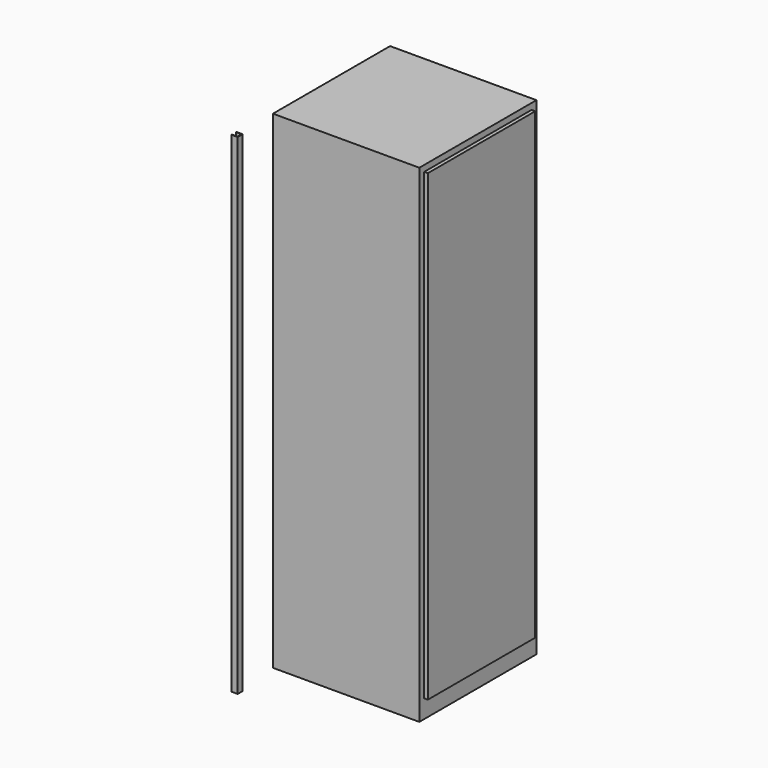
from build123d import *

# Parameters (mm, degrees)
F0_W     = 600
F0_H     = 2000
F1_DEPTH = 600
F2_W     = 550
F2_H     = 1900
F3_DEPTH = 15
F4_W     = 25
F4_H     = 2010
F5_DEPTH = 25
F6_W     = 21
F6_H     = 2010
F7_DEPTH = 23


with BuildPart() as f1:
    # F0 (on Right) → F1 (new body)
    with BuildSketch(Plane.YZ):
        with Locations((300, 1000)):
            Rectangle(F0_W, F0_H)
    extrude(amount=F1_DEPTH)

    # F2 (on face) → F3 (join)
    with BuildSketch(Plane.YZ.offset(600)):
        with Locations((300, 1025)):
            Rectangle(F2_W, F2_H)
    extrude(amount=F3_DEPTH)


with BuildPart() as f5:
    # F4 (on Right) → F5 (new body)
    with BuildSketch(Plane.YZ):
        with Locations((-199.5102200199, 1005)):
            Rectangle(F4_W, F4_H)
    extrude(amount=F5_DEPTH)

    # F6 (on face) → F7 (cut, through all)
    with BuildSketch(Plane(origin=(0, 0, 0), x_dir=(0, -1, 0), z_dir=(-1, 0, 0))):
        with Locations((199.5102200199, 1005)):
            Rectangle(F6_W, F6_H)
    extrude(amount=-F7_DEPTH, mode=Mode.SUBTRACT)


solid = Compound([f1.part, f5.part])
